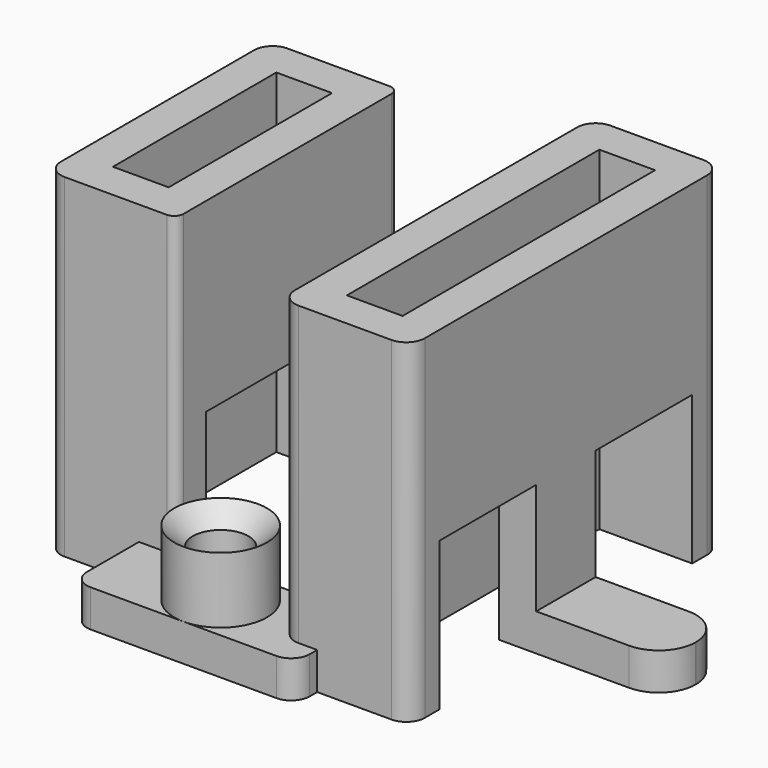
from build123d import *

# Parameters (mm, degrees)
SKETCH001_W      = 8
SKETCH001_H      = 14
SKETCH001_W_2    = 3
SKETCH001_H_2    = 17
SKETCH001_H_3    = 11
PAD_DEPTH        = 2
SKETCH_R         = 2.5
PAD001_DEPTH     = 4
HOLE_D           = 3
HOLE_DEPTH       = 25
HOLE_CSINK_D     = 5.9
HOLE_CSINK_ANGLE = 90
SKETCH003_W      = 7
SKETCH003_H      = 15
SKETCH003_W_2    = 3
SKETCH003_H_2    = 11
SKETCH003_H_3    = 21
SKETCH003_H_4    = 17
PAD002_DEPTH     = 16
SKETCH004_W      = 6.5
SKETCH004_H      = 8
POCKET_DEPTH     = 2
SKETCH005_W      = 11
SKETCH005_H      = 8
POCKET001_DEPTH  = 2
FILLET_R         = 2
FILLET001_R      = 1.99
FILLET002_R      = 1
FILLET003_R      = 1
FILLET004_R      = 1
FILLET005_R      = 1
FILLET006_R      = 1
FILLET007_R      = 1
FILLET008_R      = 0.5
FILLET009_R      = 0.5
FILLET010_R      = 1
FILLET011_R      = 1
FILLET012_R      = 1
FILLET013_R      = 1


with BuildPart() as part:
    # Sketch001 → Pad (new body)
    with BuildSketch(Plane.XY):
        Polygon((6, 12), (-6, 12), (-6, 7.5), (-11, 7.5), (-11, -7.5), (-6, -7.5), (-6, -12), (6, -12), (6, -10.5), (11, -10.5), (11, -2), (18, -2), (18, 2), (11, 2), (11, 10.5), (6, 10.5), align=None)
        Rectangle(SKETCH001_W, SKETCH001_H, mode=Mode.SUBTRACT)
        with Locations((7.5, 0)):
            Rectangle(SKETCH001_W_2, SKETCH001_H_2, mode=Mode.SUBTRACT)
        with Locations((-7.5, 0)):
            Rectangle(SKETCH001_W_2, SKETCH001_H_3, mode=Mode.SUBTRACT)
    extrude(amount=PAD_DEPTH)

    # Sketch (on Face30 of Pad) → Pad001 (join)
    with BuildSketch(Plane.XY.offset(2)):
        with Locations((0, 9.5)):
            Circle(SKETCH_R)
        with Locations((0, -9.5)):
            Circle(SKETCH_R)
    extrude(amount=PAD001_DEPTH)

    # Hole
    with Locations(Plane.XY.offset(6)):
        with Locations((0, 9.5), (0, -9.5)):
            CounterSinkHole(HOLE_D / 2, HOLE_CSINK_D / 2, depth=HOLE_DEPTH, counter_sink_angle=HOLE_CSINK_ANGLE)

    # Sketch003 (on Face5 of Hole) → Pad002 (join)
    with BuildSketch(Plane.XY.offset(2)):
        with Locations((-7.5, 0)):
            Rectangle(SKETCH003_W, SKETCH003_H)
        with Locations((-7.5, 0)):
            Rectangle(SKETCH003_W_2, SKETCH003_H_2, mode=Mode.SUBTRACT)
        with Locations((7.5, 0)):
            Rectangle(SKETCH003_W, SKETCH003_H_3)
        with Locations((7.5, 0)):
            Rectangle(SKETCH003_W_2, SKETCH003_H_4, mode=Mode.SUBTRACT)
    extrude(amount=PAD002_DEPTH)

    # Sketch004 (on Face37 of Pad002) → Pocket (cut)
    with BuildSketch(Plane.YZ.offset(11)):
        with Locations((-5.25, 4)):
            Rectangle(SKETCH004_W, SKETCH004_H)
        with Locations((5.25, 4)):
            Rectangle(SKETCH004_W, SKETCH004_H)
    extrude(amount=-POCKET_DEPTH, mode=Mode.SUBTRACT)

    # Sketch005 (on Face37 of Pocket) → Pocket001 (cut)
    with BuildSketch(Plane.YZ.offset(-4)):
        with Locations((0, 4)):
            Rectangle(SKETCH005_W, SKETCH005_H)
    extrude(amount=-POCKET001_DEPTH, mode=Mode.SUBTRACT)

    # Fillet
    fillet_edges = [part.edges().sort_by_distance(p)[0] for p in [
        (18, 2, 1),
    ]]
    fillet(fillet_edges, radius=FILLET_R)

    # Fillet001
    fillet001_edges = [part.edges().sort_by_distance(p)[0] for p in [
        (18, -2, 1),
    ]]
    fillet(fillet001_edges, radius=FILLET001_R)

    # Fillet002
    fillet002_edges = [part.edges().sort_by_distance(p)[0] for p in [
        (11, 10.5, 10),
    ]]
    fillet(fillet002_edges, radius=FILLET002_R)

    # Fillet003
    fillet003_edges = [part.edges().sort_by_distance(p)[0] for p in [
        (11, -10.5, 10),
    ]]
    fillet(fillet003_edges, radius=FILLET003_R)

    # Fillet004
    fillet004_edges = [part.edges().sort_by_distance(p)[0] for p in [
        (4, -10.5, 10),
    ]]
    fillet(fillet004_edges, radius=FILLET004_R)

    # Fillet005
    fillet005_edges = [part.edges().sort_by_distance(p)[0] for p in [
        (4, 10.5, 10),
    ]]
    fillet(fillet005_edges, radius=FILLET005_R)

    # Fillet006
    fillet006_edges = [part.edges().sort_by_distance(p)[0] for p in [
        (-11, 7.5, 10),
    ]]
    fillet(fillet006_edges, radius=FILLET006_R)

    # Fillet007
    fillet007_edges = [part.edges().sort_by_distance(p)[0] for p in [
        (-11, -7.5, 10),
    ]]
    fillet(fillet007_edges, radius=FILLET007_R)

    # Fillet008
    fillet008_edges = [part.edges().sort_by_distance(p)[0] for p in [
        (-4, 7.5, 10),
    ]]
    fillet(fillet008_edges, radius=FILLET008_R)

    # Fillet009
    fillet009_edges = [part.edges().sort_by_distance(p)[0] for p in [
        (-4, -7.5, 10),
    ]]
    fillet(fillet009_edges, radius=FILLET009_R)

    # Fillet010
    fillet010_edges = [part.edges().sort_by_distance(p)[0] for p in [
        (-6, -12, 1),
    ]]
    fillet(fillet010_edges, radius=FILLET010_R)

    # Fillet011
    fillet011_edges = [part.edges().sort_by_distance(p)[0] for p in [
        (6, -12, 1),
    ]]
    fillet(fillet011_edges, radius=FILLET011_R)

    # Fillet012
    fillet012_edges = [part.edges().sort_by_distance(p)[0] for p in [
        (-6, 12, 1),
    ]]
    fillet(fillet012_edges, radius=FILLET012_R)

    # Fillet013
    fillet013_edges = [part.edges().sort_by_distance(p)[0] for p in [
        (6, 12, 1),
    ]]
    fillet(fillet013_edges, radius=FILLET013_R)


solid = part.part
